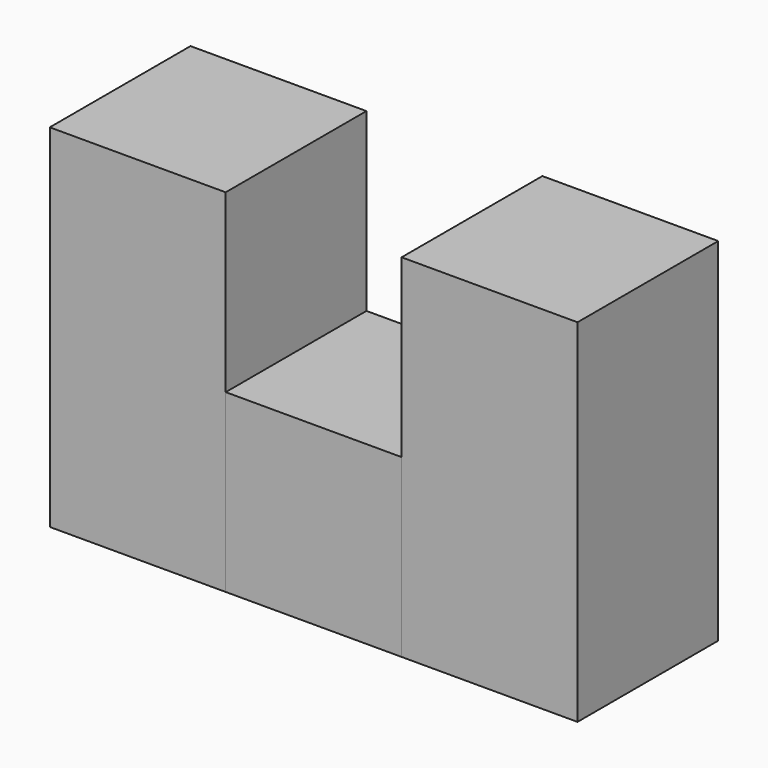
from build123d import *

# Parameters (mm, degrees)
F1_W     = 25.3969691694
F1_H     = 25.4
F2_DEPTH = 25.4
F0_W     = 25.4
F0_H     = 50.8


with BuildPart() as f2:
    # F1 (on Front) → F2 (new body)
    with BuildSketch(Plane.XZ):
        with Locations((-38.0954537541, 12.7)):
            Rectangle(F1_W, F1_H)
    extrude(amount=F2_DEPTH)


with BuildPart() as f2b:
    # F0 (on Front) → F2, piece 2 (new body)
    with BuildSketch(Plane.XZ):
        with Locations((-63.5, 25.4)):
            Rectangle(F0_W, F0_H)
    extrude(amount=F2_DEPTH)


with BuildPart() as f2c:
    # F0 (on Front) → F2, piece 3 (new body)
    with BuildSketch(Plane.XZ):
        Polygon((-25.4, 0), (0, 0), (0, 50.8), (-25.3969691694, 50.8), align=None)
    extrude(amount=F2_DEPTH)


solid = Compound([f2.part, f2b.part, f2c.part])
